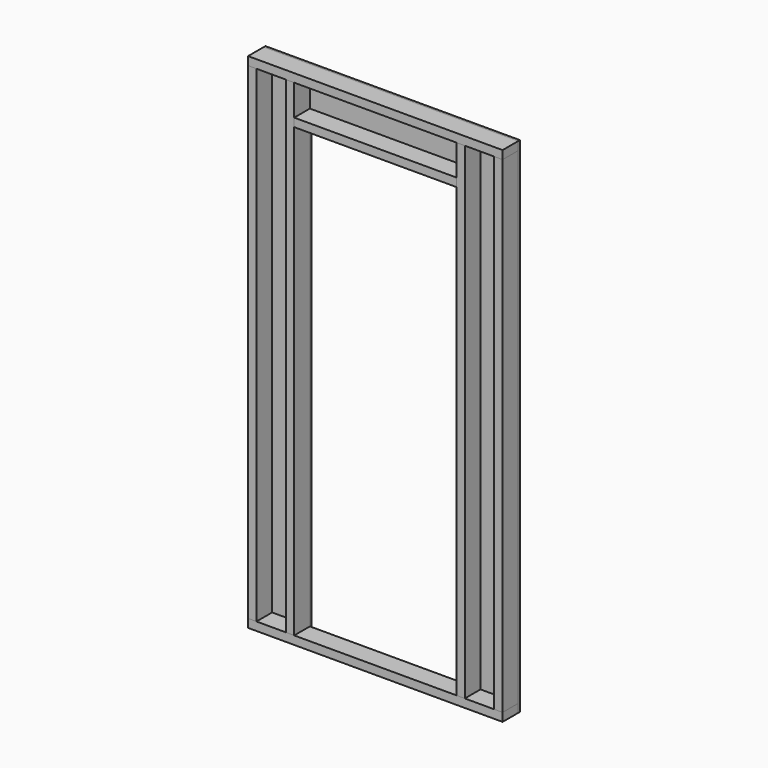
from build123d import *

# Parameters (mm, degrees)
F0_W      = 1155.7
F0_H      = 88.9
F1_DEPTH  = 38.1
F2_W      = 38.1
F2_H      = 88.9
F3_DEPTH  = 2209.8
F4_W      = 1155.7
F4_H      = 88.9
F5_DEPTH  = 38.1
F6_W      = 88.9
F6_H      = 38.1
F7_DEPTH  = 736.6
F8_W      = 209.55
F8_H      = 2286
F9_DEPTH  = 9.525
F10_W     = 736.6
F10_H     = 215.9
F11_DEPTH = 9.525


with BuildPart() as f1:
    # F0 (on Top) → F1 (new body)
    with BuildSketch(Plane.XY):
        with Locations((577.85, -44.45)):
            Rectangle(F0_W, F0_H)
    extrude(amount=F1_DEPTH)


with BuildPart() as f3:
    # F2 (on face) → F3 (new body)
    with BuildSketch(Plane.XY.offset(38.1)):
        with Locations((19.05, -44.45)):
            Rectangle(F2_W, F2_H)
    extrude(amount=F3_DEPTH)


with BuildPart() as f3b:
    # F2 (on face) → F3, piece 2 (new body)
    with BuildSketch(Plane.XY.offset(38.1)):
        with Locations((1136.65, -44.45)):
            Rectangle(F2_W, F2_H)
    extrude(amount=F3_DEPTH)


with BuildPart() as f3c:
    # F2 (on face) → F3, piece 3 (new body)
    with BuildSketch(Plane.XY.offset(38.1)):
        with Locations((190.5, -44.45)):
            Rectangle(F2_W, F2_H)
    extrude(amount=F3_DEPTH)


with BuildPart() as f3d:
    # F2 (on face) → F3, piece 4 (new body)
    with BuildSketch(Plane.XY.offset(38.1)):
        with Locations((965.2, -44.45)):
            Rectangle(F2_W, F2_H)
    extrude(amount=F3_DEPTH)


with BuildPart() as f5:
    # F4 (on face) → F5 (new body)
    with BuildSketch(Plane.XY.offset(2247.9)):
        with Locations((577.85, -44.45)):
            Rectangle(F4_W, F4_H)
    extrude(amount=F5_DEPTH)


with BuildPart() as f7:
    # F6 (on face) → F7 (new body)
    with BuildSketch(Plane.YZ.offset(209.55)):
        with Locations((-44.45, 2089.15)):
            Rectangle(F6_W, F6_H)
    extrude(amount=F7_DEPTH)


with BuildPart() as f9:
    # F8 (on face) → F9 (new body)
    with BuildSketch(Plane(origin=(0, 0, 0), x_dir=(-1, 0, 0), z_dir=(0, 1, 0))):
        with Locations((-1050.925, 1143)):
            Rectangle(F8_W, F8_H)
    extrude(amount=F9_DEPTH)


with BuildPart() as f9b:
    # F8 (on face) → F9, piece 2 (new body)
    with BuildSketch(Plane(origin=(0, 0, 0), x_dir=(-1, 0, 0), z_dir=(0, 1, 0))):
        with Locations((-104.775, 1143)):
            Rectangle(F8_W, F8_H)
    extrude(amount=F9_DEPTH)


with BuildPart() as f11:
    # F10 (on face) → F11 (new body)
    with BuildSketch(Plane(origin=(0, 0, 0), x_dir=(-1, 0, 0), z_dir=(0, 1, 0))):
        with Locations((-577.85, 2178.05)):
            Rectangle(F10_W, F10_H)
    extrude(amount=F11_DEPTH)


solid = Compound([f1.part, f3.part, f3b.part, f3c.part, f3d.part, f5.part, f7.part, f9.part, f9b.part, f11.part])
